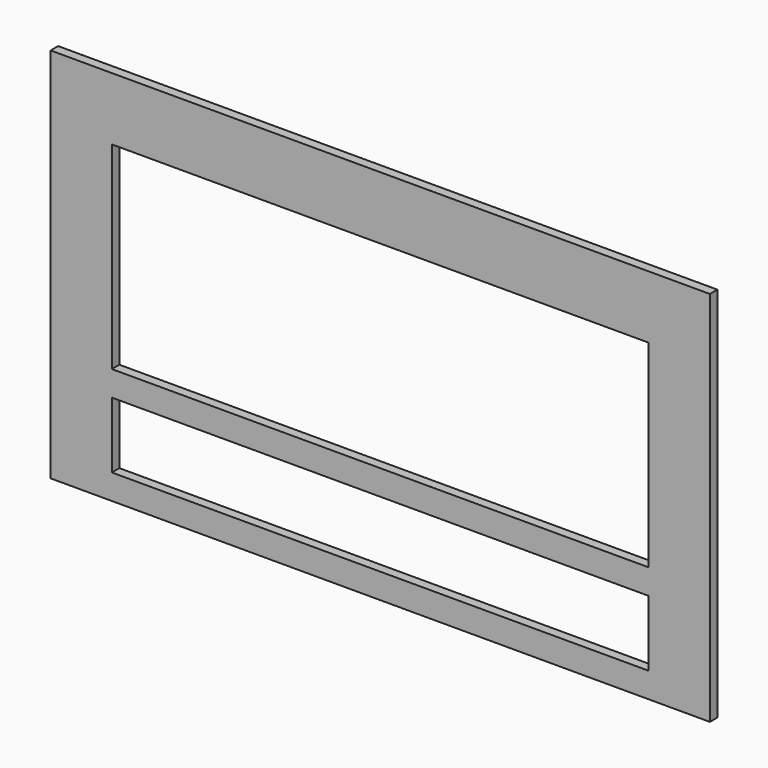
from build123d import *

# Parameters (mm, degrees)
F0_W     = 210
F0_H     = 120
F0_W_2   = 171
F0_H_2   = 21
F0_H_3   = 63
F1_DEPTH = 3


with BuildPart() as f1:
    # F0 (on Front) → F1 (new body)
    with BuildSketch(Plane.XZ):
        Rectangle(F0_W, F0_H)
        with Locations((0, -41.5)):
            Rectangle(F0_W_2, F0_H_2, mode=Mode.SUBTRACT)
        with Locations((0, 8.5)):
            Rectangle(F0_W_2, F0_H_3, mode=Mode.SUBTRACT)
    extrude(amount=F1_DEPTH)


solid = f1.part
